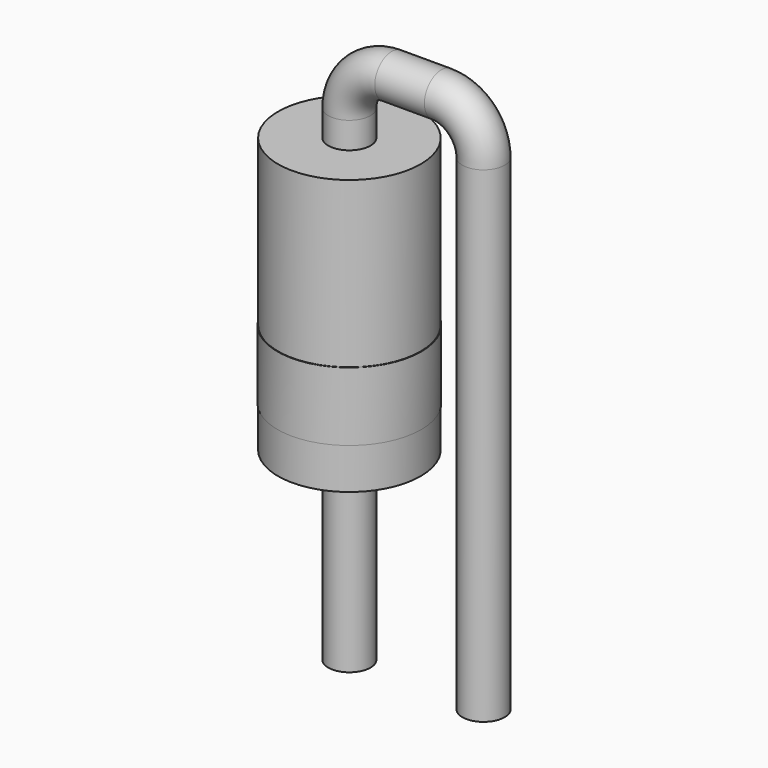
from build123d import *

# Parameters (mm, degrees)
SKETCH001_R = 0.4
SKETCH002_W = 1.35
SKETCH002_H = 5.2
SKETCH003_W = 1.36
SKETCH003_H = 1.3


with BuildPart() as sweep_body:
    # Sweep: sweep along a path in Sketch
    with BuildLine(Plane.XZ) as sweep_path:
        Line((0, -3), (0, 6.2))
        ThreePointArc((0, 6.2), (0.234315, 6.765685), (0.8, 7))
        Line((0.8, 7), (1.74, 7))
        ThreePointArc((1.74, 7), (2.305685, 6.765685), (2.54, 6.2))
        Line((2.54, 6.2), (2.54, -3))
    # Sketch001 → Sweep (sweep)
    with BuildSketch(Plane.XY):
        Circle(SKETCH001_R)
    sweep(path=sweep_path.line)


with BuildPart() as revolution:
    # Sketch002 → Revolution (revolve)
    with BuildSketch(Plane.XZ):
        with Locations((0.675, 3.1)):
            Rectangle(SKETCH002_W, SKETCH002_H)
    revolve(axis=Axis((0, 0, 0.5), (0, 0, 1)))


with BuildPart() as revolution001:
    # Sketch003 → Revolution001 (revolve)
    with BuildSketch(Plane.XZ):
        with Locations((0.68, 1.93)):
            Rectangle(SKETCH003_W, SKETCH003_H)
    revolve(axis=Axis((0, 0, 0), (0, 0, 1)))


solid = Compound([sweep_body.part, revolution.part, revolution001.part])
